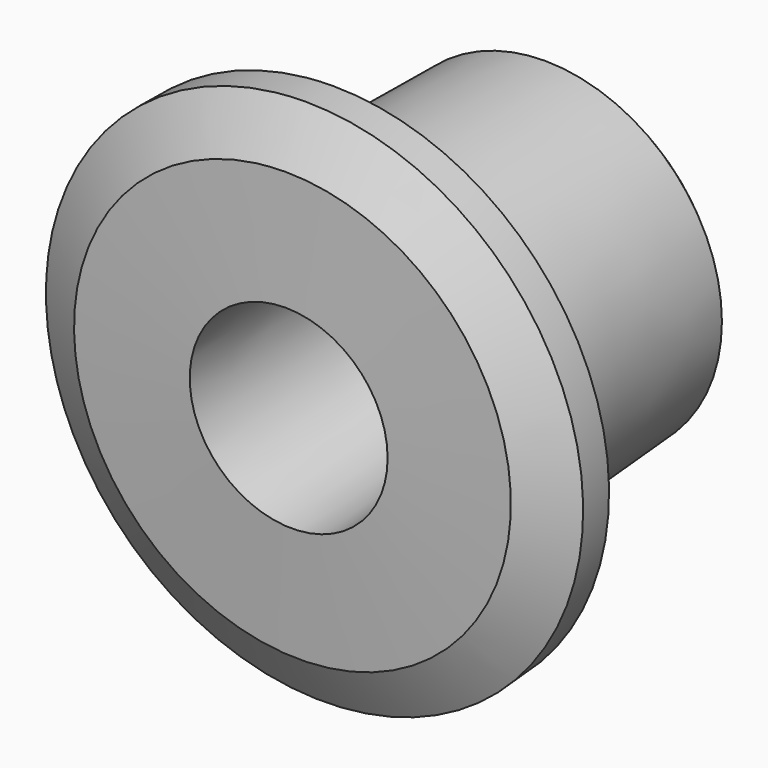
from build123d import *

# Parameters (mm, degrees)
F0_W     = 30
F0_H     = 10
F0_W_2   = 10
F2_R     = 2
F3_SIZE  = 2
F4_SIZE2 = 6
F4_SIZE  = 3


with BuildPart() as f1:
    # F0 (on Right) → F1 (revolve)
    with BuildSketch(Plane.YZ):
        Polygon((37.8557965517, 22.7), (27.8557965517, 22.7), (27.8557965517, 12.7), (31.5659119412, 12.7), (37.8557965517, 12.7), align=None)
        with Locations((52.8557965517, 17.7)):
            Rectangle(F0_W, F0_H)
        with Locations((32.8557965517, 27.7)):
            Rectangle(F0_W_2, F0_H)
    revolve(axis=Axis((0, 33.9278982759, 1.35), (0, 0.9992093063, 0.0397588012)))

    # F2
    f2_edges = [f1.edges().sort_by_distance(p)[0] for p in [
        (0, 39.539737, -19.620411),
    ]]
    fillet(f2_edges, radius=F2_R)

    # F3
    f3_edges = [f1.edges().sort_by_distance(p)[0] for p in [
        (0, 69.444891, -17.23677),
    ]]
    chamfer(f3_edges, length=F3_SIZE)

    # F4
    f4_edges = [f1.edges().sort_by_distance(p)[0] for p in [
        (0, 40.334284, -29.588796),
        (0, 30.365899, -30.383343),
    ]]
    f4_side = f1.faces().sort_by_distance((0, 35.350092, -29.98607))[0]
    chamfer(f4_edges, length=F4_SIZE, length2=F4_SIZE2, reference=f4_side)


solid = f1.part
